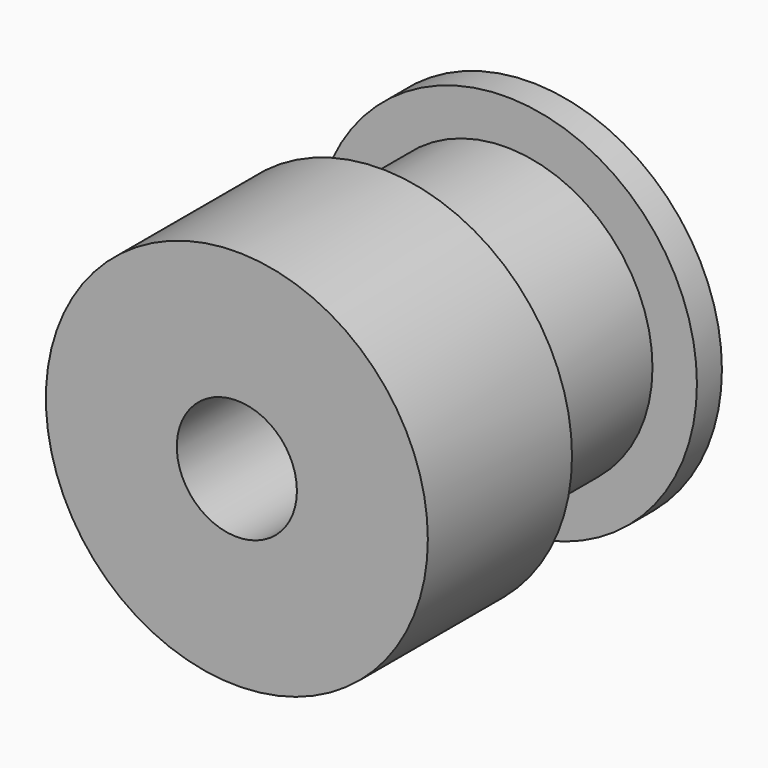
from build123d import *

# Parameters (mm, degrees)
CYLINDER269_R          = 2.5
CYLINDER269_DEPTH      = 19.2
CYLINDER267_R          = 6.1
CYLINDER267_DEPTH      = 7.2
CYLINDER268_R          = 7.95
CYLINDER268_DEPTH      = 1.3
CYLINDER266_R          = 7.95
CYLINDER266_DEPTH      = 7.5
CUT196_PLACEMENT_ANGLE = 270


with BuildPart() as cylinder269:
    # Cylinder269 → Cylinder269 (new body)
    with BuildSketch(Plane.XY.offset(-2)):
        Circle(CYLINDER269_R)
    extrude(amount=CYLINDER269_DEPTH)


with BuildPart() as cylinder267:
    # Cylinder267 → Cylinder267 (new body)
    with BuildSketch(Plane.XY.offset(7)):
        Circle(CYLINDER267_R)
    extrude(amount=CYLINDER267_DEPTH)


with BuildPart() as cylinder268:
    # Cylinder268 → Cylinder268 (new body)
    with BuildSketch(Plane.XY.offset(14)):
        Circle(CYLINDER268_R)
    extrude(amount=CYLINDER268_DEPTH)


with BuildPart() as cut196:
    # Cylinder266 → Cylinder266 (new body)
    with BuildSketch(Plane.XY):
        Circle(CYLINDER266_R)
    extrude(amount=CYLINDER266_DEPTH)

    # Fusion104: union Cylinder267, Cylinder268
    add(cylinder267.part)
    add(cylinder268.part)

    # Cut196: cut Cylinder269
    add(cylinder269.part, mode=Mode.SUBTRACT)


with BuildPart() as cut196_1:
    # Cut196 placement: moved
    add(cut196.part.moved(Location((26.85, 13.4, 32.15))).rotate(Axis((26.85, 13.4, 32.15), (1, 0, 0)), CUT196_PLACEMENT_ANGLE))


solid = cut196_1.part
